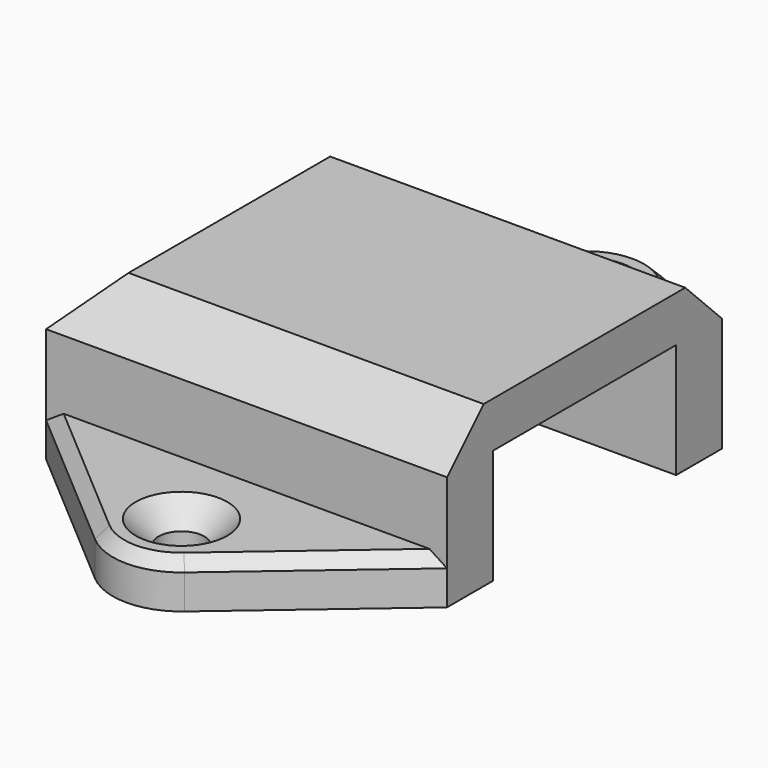
from build123d import *

# Parameters (mm, degrees)
SKETCH064_W     = 35
SKETCH064_H     = 30
PAD030_DEPTH    = 14
SKETCH065_W     = 30
SKETCH065_H     = 20
POCKET041_DEPTH = 10
PAD031_DEPTH    = 4
FILLET012_R     = 6
SKETCH067_R     = 2
POCKET042_DEPTH = 4.001
CHAMFER026_SIZE = 4
CHAMFER027_SIZE = 2
CHAMFER028_SIZE = 1


with BuildPart() as part:
    # Sketch064 → Pad030 (new body)
    with BuildSketch(Plane.XY):
        with Locations((-217.5, -99)):
            Rectangle(SKETCH064_W, SKETCH064_H)
    extrude(amount=PAD030_DEPTH)

    # Sketch065 (on Face5 of Pad030) → Pocket041 (cut)
    with BuildSketch(Plane(origin=(0, 0, 0), x_dir=(1, 0, 0), z_dir=(0, 0, -1))):
        with Locations((-215, 99)):
            Rectangle(SKETCH065_W, SKETCH065_H)
    extrude(amount=-POCKET041_DEPTH, mode=Mode.SUBTRACT)

    # Sketch066 (on Face4 of Pocket041) → Pad031 (join)
    with BuildSketch(Plane(origin=(0, 0, 0), x_dir=(1, 0, 0), z_dir=(0, 0, -1))):
        Polygon((-235, 114), (-217.5, 129), (-200, 114), align=None)
        Polygon((-235, 84), (-217.5, 69), (-200, 84), align=None)
    extrude(amount=-PAD031_DEPTH)

    # Fillet012
    fillet012_edges = [part.edges().sort_by_distance(p)[0] for p in [
        (-217.5, -129, 2),
        (-217.5, -69, 2),
    ]]
    fillet(fillet012_edges, radius=FILLET012_R)

    # Sketch067 (on Face1 of Fillet012) → Pocket042 (cut, through all)
    with BuildSketch(Plane.XY.offset(4)):
        with Locations((-217.5, -76.902467)):
            Circle(SKETCH067_R)
        with Locations((-217.5, -121.097533)):
            Circle(SKETCH067_R)
    extrude(amount=-POCKET042_DEPTH, mode=Mode.SUBTRACT)

    # Chamfer026
    chamfer026_edges = [part.edges().sort_by_distance(p)[0] for p in [
        (-235, -99, 14),
        (-217.5, -114, 14),
        (-217.5, -84, 14),
    ]]
    chamfer(chamfer026_edges, length=CHAMFER026_SIZE)

    # Chamfer027
    chamfer027_edges = [part.edges().sort_by_distance(p)[0] for p in [
        (-219.5, -121.097533, 4),
        (-219.5, -76.902467, 4),
    ]]
    chamfer(chamfer027_edges, length=CHAMFER027_SIZE)

    # Chamfer028
    chamfer028_edges = [part.edges().sort_by_distance(p)[0] for p in [
        (-217.5, -127.097533, 4),
        (-217.5, -70.902467, 4),
    ]]
    chamfer(chamfer028_edges, length=CHAMFER028_SIZE)


with BuildPart() as part_1:
    # Body023 placement: moved
    add(part.part.moved(Location((0, 0, 15.5))))


solid = part_1.part
